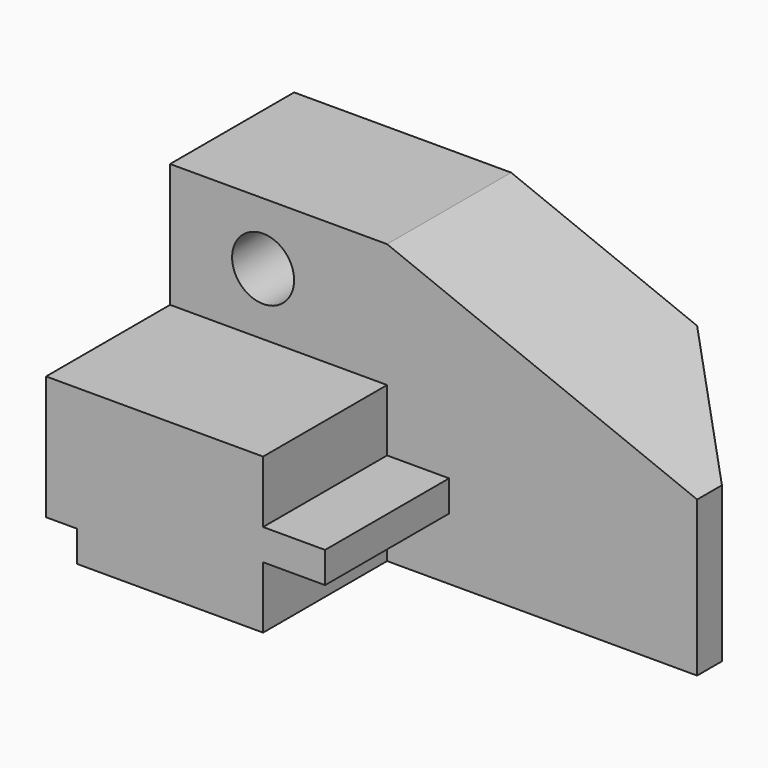
from build123d import *

# Parameters (mm, degrees)
F0_W      = 107.95
F0_H      = 63.5
F1_DEPTH  = 57.15
F2_W      = 31.75
F2_H      = 25.4
F3_DEPTH  = 107.951
F4_W      = 31.75
F4_H      = 12.7
F5_DEPTH  = 63.5
F6_W      = 50.8
F6_H      = 31.75
F7_DEPTH  = 25.4
F8_R      = 6.35
F9_DEPTH  = 31.751
F10_W     = 6.35
F10_H     = 6.35
F11_DEPTH = 63.501
F13_DEPTH = 31.751
F15_DEPTH = 57.151


with BuildPart() as f1:
    # F0 (on Top) → F1 (new body)
    with BuildSketch(Plane.XY):
        with Locations((53.975, 31.75)):
            Rectangle(F0_W, F0_H)
    extrude(amount=F1_DEPTH)

    # F2 (on face) → F3 (cut, through all)
    with BuildSketch(Plane(origin=(0, 0, 0), x_dir=(0, -1, 0), z_dir=(-1, 0, 0))):
        with Locations((-15.875, 44.45)):
            Rectangle(F2_W, F2_H)
    extrude(amount=-F3_DEPTH, mode=Mode.SUBTRACT)

    # F4 (on face) → F5 (cut)
    with BuildSketch(Plane.YZ.offset(107.95)):
        with Locations((15.875, 25.4)):
            Rectangle(F4_W, F4_H)
        with Locations((15.875, 6.35)):
            Rectangle(F4_W, F4_H)
    extrude(amount=-F5_DEPTH, mode=Mode.SUBTRACT)

    # F6 (on face) → F7 (cut)
    with BuildSketch(Plane.XY.offset(19.05)):
        with Locations((82.55, 15.875)):
            Rectangle(F6_W, F6_H)
    extrude(amount=-F7_DEPTH, mode=Mode.SUBTRACT)

    # F8 (on face) → F9 (cut, through all)
    with BuildSketch(Plane.XZ.offset(-31.75)):
        with Locations((19.05, 44.45)):
            Circle(F8_R)
    extrude(amount=-F9_DEPTH, mode=Mode.SUBTRACT)

    # F10 (on face) → F11 (cut, through all)
    with BuildSketch(Plane.XZ):
        with Locations((3.175, 3.175)):
            Rectangle(F10_W, F10_H)
    extrude(amount=-F11_DEPTH, mode=Mode.SUBTRACT)

    # F12 (on face) → F13 (cut, through all)
    with BuildSketch(Plane.XZ.offset(-31.75)):
        Polygon((107.95, 57.15), (44.45, 57.15), (107.95, 31.75), align=None)
    extrude(amount=-F13_DEPTH, mode=Mode.SUBTRACT)

    # F14 (on face) → F15 (cut, through all)
    with BuildSketch(Plane.XY):
        Polygon((82.55, 63.5), (107.95, 38.1), (107.95, 63.5), align=None)
    extrude(amount=F15_DEPTH, mode=Mode.SUBTRACT)


solid = f1.part
